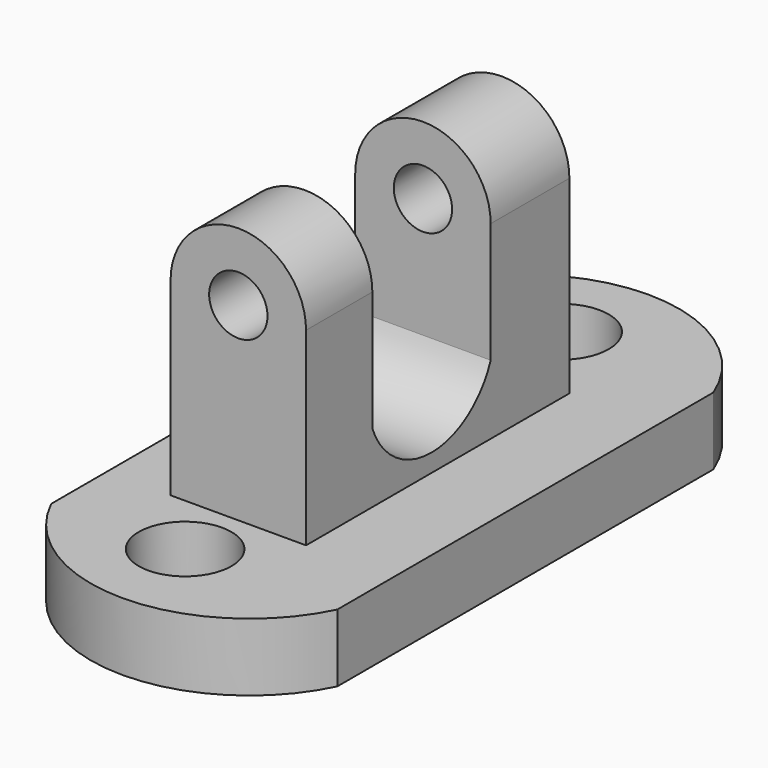
from build123d import *

# Parameters (mm, degrees)
F1_DEPTH  = 14.732
F2_R      = 6.345161
F3_DEPTH  = 39.878
F3_FACE_R = 6.345161
F4_DEPTH  = 31.75
F5_R      = 10.083748
F6_DEPTH  = 14.733
F5_R_2    = 10.273588
F7_DEPTH  = 14.733
F9_DEPTH  = 37.449291
F10_DEPTH = 47.244


with BuildPart() as f1:
    # F0 (on Top) → F1 (new body)
    with BuildSketch(Plane.XY):
        with BuildLine():
            ThreePointArc((24.815131, 56.097239), (-6.31658, 77.345545), (-37.448291, 56.097239))
            Line((-37.448291, 56.097239), (-37.448291, -46.171185))
            ThreePointArc((-37.448291, -46.171185), (-6.31658, -65.708753), (24.815131, -46.171185))
            Line((24.815131, -46.171185), (24.815131, 56.097239))
        make_face()
    extrude(amount=F1_DEPTH)

    # F5 (on face) → F6 (cut, through all)
    with BuildSketch(Plane.XY.offset(14.732)):
        with Locations((-9.286365, -44.953499)):
            Circle(F5_R)
    extrude(amount=-F6_DEPTH, mode=Mode.SUBTRACT)

    # F5 (on face) → F7 (cut, through all)
    with BuildSketch(Plane.XY.offset(14.732)):
        with Locations((-9.286365, 57.427369)):
            Circle(F5_R_2)
    extrude(amount=-F7_DEPTH, mode=Mode.SUBTRACT)


with BuildPart() as f3:
    # F2 (on Front) → F3 (new body)
    with BuildSketch(Plane.XZ):
        with BuildLine():
            Line((-23.010395, 56.398027), (-23.010395, 15.189869))
            Line((-23.010395, 15.189869), (6.466975, 15.189869))
            Line((6.466975, 15.189869), (6.466975, 56.398027))
            ThreePointArc((6.466975, 56.398027), (-8.27171, 71.136712), (-23.010395, 56.398027))
        make_face()
        with Locations((-8.27171, 56.398027)):
            Circle(F2_R, mode=Mode.SUBTRACT)
    extrude(amount=-F3_DEPTH)

    # F3_face (on face) → F4 (join)
    with BuildSketch(Plane(origin=(-8.27171, 0, 40.38239), x_dir=(1, 0, 0), z_dir=(0, -1, 0))):
        with BuildLine():
            Line((-14.738685, 16.015637), (-14.738685, -25.19252))
            Line((-14.738685, -25.19252), (14.738685, -25.19252))
            Line((14.738685, -25.19252), (14.738685, 16.015637))
            ThreePointArc((14.738685, 16.015637), (0, 30.754322), (-14.738685, 16.015637))
        make_face()
        with Locations((0, 16.015637)):
            Circle(F3_FACE_R, mode=Mode.SUBTRACT)
    extrude(amount=F4_DEPTH)

    # F8 (on Right) → F9 (cut, through all)
    with BuildSketch(Plane.YZ):
        with BuildLine():
            Line((18.469745, 72.33987), (-13.71473, 72.33987))
            Line((-13.71473, 72.33987), (-13.71473, 30.229341))
            ThreePointArc((-13.71473, 30.229341), (2.377508, 19.083676), (18.469745, 30.229341))
            Line((18.469745, 30.229341), (18.469745, 72.33987))
        make_face()
    extrude(amount=-F9_DEPTH, mode=Mode.SUBTRACT)

    # F8 (on Right) → F10 (cut)
    with BuildSketch(Plane.YZ):
        with BuildLine():
            Line((18.469745, 72.33987), (-13.71473, 72.33987))
            Line((-13.71473, 72.33987), (-13.71473, 30.229341))
            ThreePointArc((-13.71473, 30.229341), (2.377508, 19.083676), (18.469745, 30.229341))
            Line((18.469745, 30.229341), (18.469745, 72.33987))
        make_face()
    extrude(amount=F10_DEPTH, mode=Mode.SUBTRACT)


solid = Compound([f1.part, f3.part])
